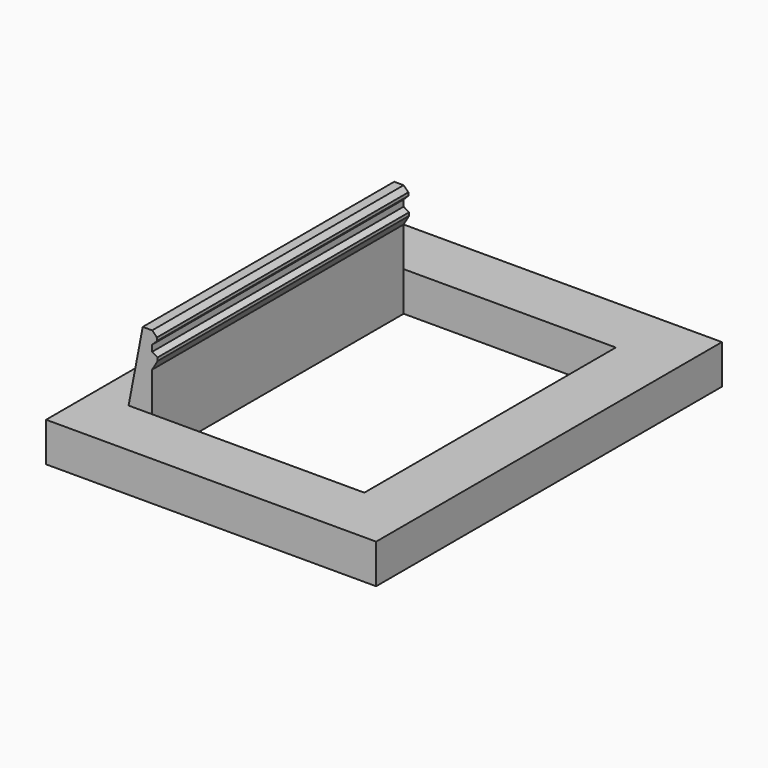
from build123d import *

# Parameters (mm, degrees)
SKETCH009_W     = 42
SKETCH009_H     = 55
SKETCH009_W_2   = 27
SKETCH009_H_2   = 40
PAD004_DEPTH    = 5
SKETCH010_R     = 2
POCKET004_DEPTH = 4
PAD005_DEPTH    = 20


with BuildPart() as part:
    # Sketch009 → Pad004 (new body)
    with BuildSketch(Plane.XY):
        Rectangle(SKETCH009_W, SKETCH009_H)
        Rectangle(SKETCH009_W_2, SKETCH009_H_2, mode=Mode.SUBTRACT)
    extrude(amount=PAD004_DEPTH)

    # Sketch010 → Pocket004 (cut)
    with BuildSketch(Plane.XY):
        with Locations((-17.25, 23.75)):
            Circle(SKETCH010_R)
        with Locations((17.25, 23.75)):
            Circle(SKETCH010_R)
        with Locations((17.25, -23.75)):
            Circle(SKETCH010_R)
        with Locations((-17.25, -23.75)):
            Circle(SKETCH010_R)
    extrude(amount=POCKET004_DEPTH, mode=Mode.SUBTRACT)

    # Sketch011 → Pad005 (join, symmetric)
    with BuildSketch(Plane(origin=(0, 0, 5), x_dir=(1, 0, 0), z_dir=(0, -1, 0))):
        Polygon((-13.5, 0), (-13.5, 5), (-12.8, 6.2), (-12.8, 6.6), (-13.5, 7), (-13.5, 7.8), (-12.9, 8.4), (-12.9, 8.8), (-13.5, 9.4), (-14.7, 9.4), (-16.5, 0), align=None)
    extrude(amount=PAD005_DEPTH, both=True)


with BuildPart() as part_1:
    # Body003 placement: moved
    add(part.part.moved(Location((-100, 0, 50))))


solid = part_1.part
